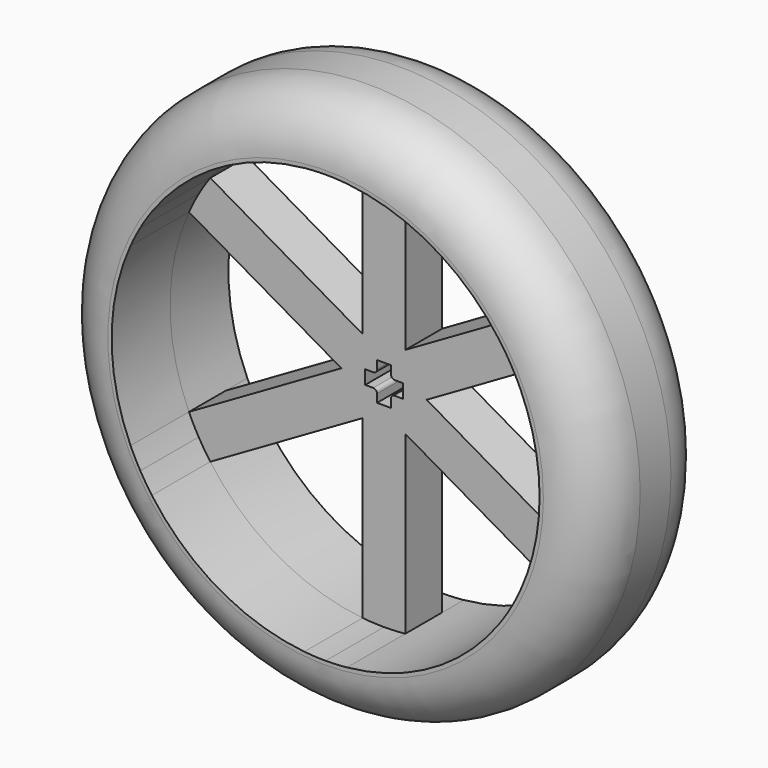
from build123d import *

# Parameters (mm, degrees)
F1_DEPTH = 3
F2_COUNT = 6
F3_R     = 35.35
F4_DEPTH = 9.5
F5_R     = 7
F6_R     = 3.5
F7_DEPTH = 3
F8_W     = 1.55
F8_H     = 1.8
F8_W_2   = 1.8
F8_H_2   = 1.55
F9_DEPTH = 25
F10_R    = 0.5


with BuildPart() as f1:
    # F0 (on Front) → F1 (new body, symmetric)
    with BuildSketch(Plane.XZ):
        with BuildLine():
            ThreePointArc((-2.775, 2.1329263935), (-4.6419e-05, 3.4999999997), (2.7749434229, 2.133))
            Line((2.7749434229, 2.133), (2.7749434229, 27.7114090042))
            ThreePointArc((2.7749434229, 27.7114090042), (1.3891728178, 27.8153320829), (-5.65771e-05, 27.8499999999))
            ThreePointArc((-5.65771e-05, 27.8499999999), (-1.3892577191, 27.8153278426), (-2.775, 27.7114033387))
            Line((-2.775, 27.7114033387), (-2.775, 2.1329263935))
        make_face()
    extrude(amount=F1_DEPTH, both=True)

    # F2: F1 ×6 about axis
    f2_axis = Axis((0, 0, 0), (0, -1, 0))


with BuildPart() as f1_1:
    add(f1.part)
    for i in range(1, F2_COUNT):
        add(f1.part.rotate(f2_axis, i * 360 / F2_COUNT))

    # F3 (on face) → F4 (join, symmetric)
    with BuildSketch(Plane.XZ.offset(3)):
        Circle(F3_R)
        with BuildLine():
            ThreePointArc((25.3862558838, 11.4525330038), (27.2270979574, 5.8572721312), (27.85, 0))
            ThreePointArc((27.85, 0), (27.2271039366, -5.857244337), (25.3862792658, -11.4524811738))
            ThreePointArc((25.3862792658, -11.4524811738), (24.7834093858, -12.7045314441), (24.1188357839, -13.9249510028))
            ThreePointArc((24.1188357839, -13.9249510028), (23.3941977896, -15.1107249919), (22.6113124609, -16.2588760004))
            ThreePointArc((22.6113124609, -16.2588760004), (13.9250246211, -24.1187932804), (2.775, -27.7114033387))
            ThreePointArc((2.775, -27.7114033387), (1.3892577191, -27.8153278426), (5.65771e-05, -27.8499999999))
            ThreePointArc((5.65771e-05, -27.8499999999), (-1.3891728178, -27.8153320829), (-2.7749434229, -27.7114090042))
            ThreePointArc((-2.7749434229, -27.7114090042), (-13.9249753789, -24.1188217104), (-22.6112792658, -16.2589221649))
            ThreePointArc((-22.6112792658, -16.2589221649), (-23.3941516667, -15.1107963985), (-24.1187792068, -13.9250489972))
            ThreePointArc((-24.1187792068, -13.9250489972), (-24.7833706074, -12.704607091), (-25.3862558838, -11.4525330038))
            ThreePointArc((-25.3862558838, -11.4525330038), (-27.85, -2.843e-05), (-25.3862792658, 11.4524811738))
            ThreePointArc((-25.3862792658, 11.4524811738), (-24.7834093858, 12.7045314441), (-24.1188357839, 13.9249510028))
            ThreePointArc((-24.1188357839, 13.9249510028), (-23.3941977896, 15.1107249919), (-22.6113124609, 16.2588760004))
            ThreePointArc((-22.6113124609, 16.2588760004), (-13.9250246211, 24.1187932804), (-2.775, 27.7114033387))
            ThreePointArc((-2.775, 27.7114033387), (-1.3892577191, 27.8153278426), (-5.65771e-05, 27.8499999999))
            ThreePointArc((-5.65771e-05, 27.8499999999), (1.3891728178, 27.8153320829), (2.7749434229, 27.7114090042))
            ThreePointArc((2.7749434229, 27.7114090042), (13.9249753789, 24.1188217104), (22.6112792658, 16.2589221649))
            ThreePointArc((22.6112792658, 16.2589221649), (23.3941516667, 15.1107963985), (24.1187792068, 13.9250489972))
            ThreePointArc((24.1187792068, 13.9250489972), (24.7833706074, 12.704607091), (25.3862558838, 11.4525330038))
        make_face(mode=Mode.SUBTRACT)
    extrude(amount=F4_DEPTH, both=True)

    # F5
    f5_edges = [f1_1.edges().sort_by_distance(p)[0] for p in [
        (-35.35, 6.5, 0),
        (-35.35, -12.5, 0),
    ]]
    fillet(f5_edges, radius=F5_R)

    # F6 (on Front) → F7 (join, symmetric)
    with BuildSketch(Plane.XZ):
        Circle(F6_R)
    extrude(amount=F7_DEPTH, both=True)

    # F8 (on face) → F9 (cut)
    with BuildSketch(Plane.XZ.offset(3)):
        with Locations((-1.675, 0)):
            Rectangle(F8_W, F8_H)
        with Locations((0, 1.675)):
            Rectangle(F8_W_2, F8_H_2)
        Rectangle(F8_W_2, F8_H)
        with Locations((1.675, 0)):
            Rectangle(F8_W, F8_H)
        with Locations((0, -1.675)):
            Rectangle(F8_W_2, F8_H_2)
    extrude(amount=-F9_DEPTH, mode=Mode.SUBTRACT)

    # F10
    f10_edges = [f1_1.edges().sort_by_distance(p)[0] for p in [
        (0.9, 0, 0.9),
        (0.9, 0, -0.9),
        (-0.9, 0, -0.9),
        (-0.9, 0, 0.9),
    ]]
    fillet(f10_edges, radius=F10_R)


solid = f1_1.part
